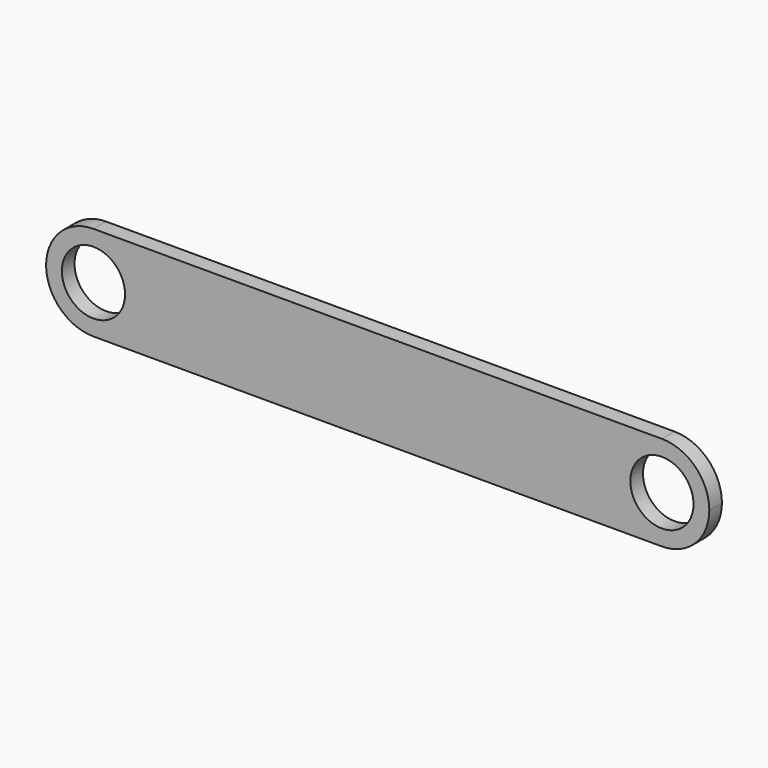
from build123d import *

# Parameters (mm, degrees)
F0_R     = 10
F1_DEPTH = 2.5


with BuildPart() as f1:
    # F0 (on Front) → F1 (new body, symmetric)
    with BuildSketch(Plane.XZ):
        with BuildLine():
            ThreePointArc((0, 15), (10.606602, 10.606602), (15, 0))
            ThreePointArc((15, 0), (10.606602, -10.606602), (0, -15))
            Line((0, -15), (180, -15))
            ThreePointArc((180, -15), (165, 0), (180, 15))
            Line((180, 15), (0, 15))
        make_face()
        with BuildLine():
            ThreePointArc((0, -15), (10.606602, -10.606602), (15, 0))
            ThreePointArc((15, 0), (10.606602, 10.606602), (0, 15))
            ThreePointArc((0, 15), (-15, 0), (0, -15))
        make_face()
        Circle(F0_R, mode=Mode.SUBTRACT)
        with BuildLine():
            ThreePointArc((195, 0), (190.606602, 10.606602), (180, 15))
            ThreePointArc((180, 15), (165, 0), (180, -15))
            ThreePointArc((180, -15), (190.606602, -10.606602), (195, 0))
        make_face()
        with Locations((180, 0)):
            Circle(F0_R, mode=Mode.SUBTRACT)
    extrude(amount=F1_DEPTH, both=True)


solid = f1.part
